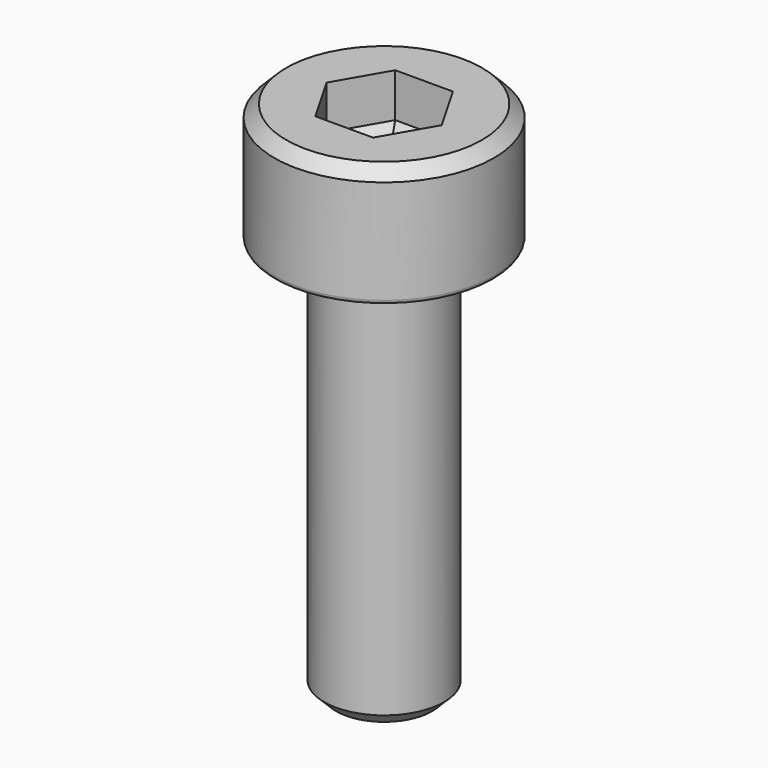
from build123d import *

# Parameters (mm, degrees)
F3_DEPTH = 1.6
F4_SIZE2 = 0.8660254038
F4_SIZE  = 0.5
F5_SIZE  = 0.3
F6_R     = 0.1


with BuildPart() as f1:
    # F0 (on Front) → F1 (revolve)
    with BuildSketch(Plane.XZ):
        Polygon((2.75, 0), (0, 0), (0, -13), (1.5, -13), (1.5, -3), (2.75, -3), align=None)
    revolve(axis=Axis((0, 0, -6.5), (0, 0, 1)))

    # F2 (on face) → F3 (cut)
    with BuildSketch(Plane.XY):
        Polygon((0.7216878365, 1.25), (-0.7216878365, 1.25), (-1.443375673, 0), (-0.7216878365, -1.25), (0.7216878365, -1.25), (1.443375673, 0), align=None)
    extrude(amount=-F3_DEPTH, mode=Mode.SUBTRACT)

    # F4
    f4_edges = [f1.edges().sort_by_distance(p)[0] for p in [
        (0, 1.25, -1.6),
        (-1.082532, 0.625, -1.6),
        (-1.082532, -0.625, -1.6),
        (0, -1.25, -1.6),
        (1.082532, -0.625, -1.6),
        (1.082532, 0.625, -1.6),
    ]]
    chamfer(f4_edges, length=F4_SIZE, length2=F4_SIZE2)

    # F5
    f5_edges = [f1.edges().sort_by_distance(p)[0] for p in [
        (-2.75, 0, 0),
        (-1.5, 0, -13),
    ]]
    chamfer(f5_edges, length=F5_SIZE)

    # F6
    f6_edges = [f1.edges().sort_by_distance(p)[0] for p in [
        (-2.75, 0, -3),
    ]]
    fillet(f6_edges, radius=F6_R)


with BuildPart() as f7_1:
    # F7: copy of F1
    add(f1.part)


solid = f1.part
